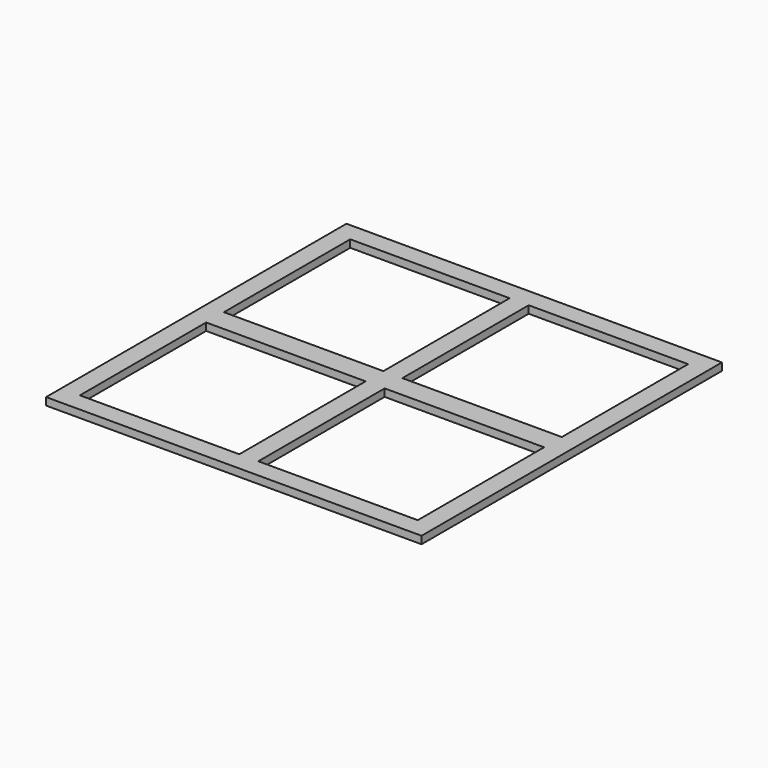
from build123d import *

# Parameters (mm, degrees)
F0_W     = 100
F0_H     = 100
F0_W_2   = 42.465364635
F0_H_2   = 5.9141498059
F0_W_3   = 5.06927073
F0_H_3   = 42.042925097
F1_DEPTH = 2


with BuildPart() as f1:
    # F0 (on Top) → F1 (new body)
    with BuildSketch(Plane.XY):
        Rectangle(F0_W, F0_H)
        Polygon((2.534635365, 45), (45, 45), (45, 2.957074903), (45, -2.957074903), (45, -45), (2.534635365, -45), (-2.534635365, -45), (-45, -45), (-45, -2.957074903), (-45, 2.957074903), (-45, 45), (-2.534635365, 45), align=None, mode=Mode.SUBTRACT)
        with Locations((-23.7673176825, 0)):
            Rectangle(F0_W_2, F0_H_2)
        with Locations((23.7673176825, 0)):
            Rectangle(F0_W_2, F0_H_2)
        with Locations((0, 23.9785374515)):
            Rectangle(F0_W_3, F0_H_3)
        with Locations((0, -23.9785374515)):
            Rectangle(F0_W_3, F0_H_3)
        Rectangle(F0_W_3, F0_H_2)
    extrude(amount=F1_DEPTH)


solid = f1.part
